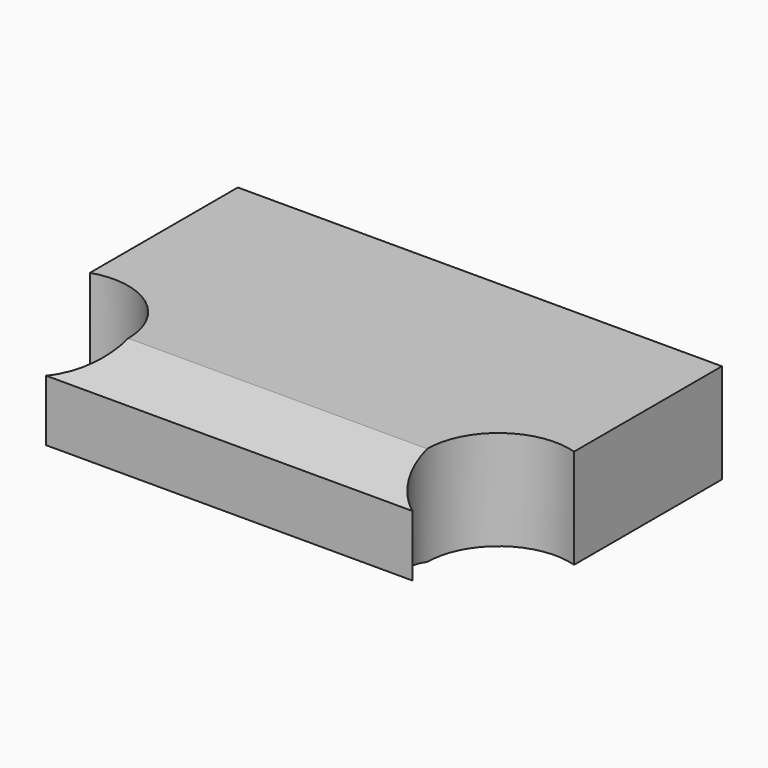
from build123d import *

# Parameters (mm, degrees)
F0_W          = 431.8
F0_H          = 88.9
F1_DEPTH      = 279.4
F2_R          = 63.5
F3_DEPTH      = 127
F5_DEPTH      = 227.33
F5_DEPTH_BACK = 269.24


with BuildPart() as f1:
    # F0 (on Front) → F1 (new body)
    with BuildSketch(Plane.XZ):
        Rectangle(F0_W, F0_H)
    extrude(amount=-F1_DEPTH)

    # F2 (on face) → F3 (cut)
    with BuildSketch(Plane.XY.offset(44.45)):
        with Locations((-196.85, 53.975)):
            Circle(F2_R)
        with Locations((196.85, 53.975)):
            Circle(F2_R)
    extrude(amount=-F3_DEPTH, mode=Mode.SUBTRACT)

    # F4 (on Right) → F5 (cut, two sides)
    with BuildSketch(Plane.YZ) as f5_sk:
        Polygon((0, 44.45), (0, 27.305), (53.975, 44.45), align=None)
        Polygon((0, -44.45), (53.975, -44.45), (0, -27.305), align=None)
    extrude(amount=-F5_DEPTH, mode=Mode.SUBTRACT)
    extrude(f5_sk.sketch, amount=F5_DEPTH_BACK, mode=Mode.SUBTRACT)


solid = f1.part
